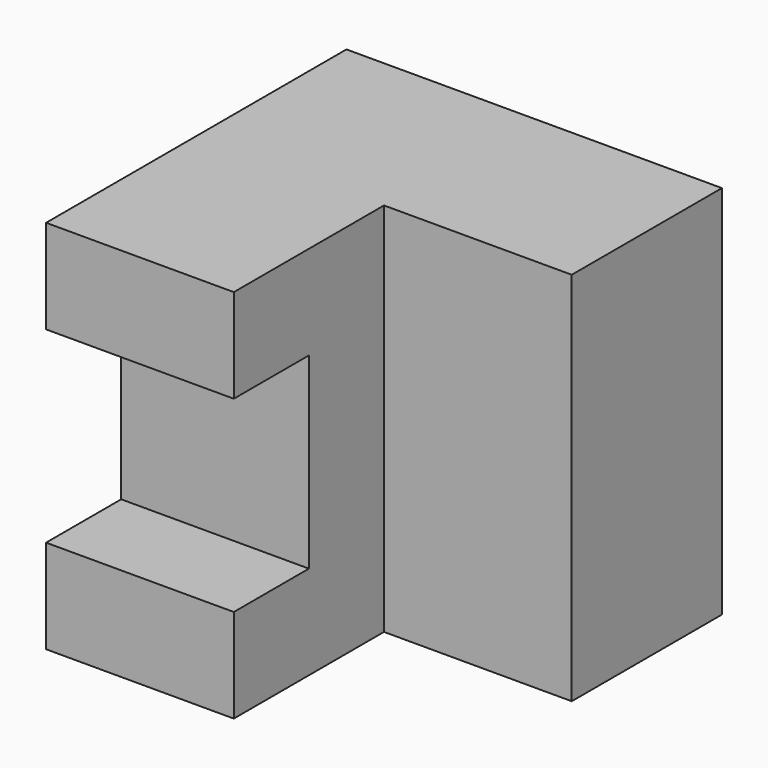
from build123d import *

# Parameters (mm, degrees)
F0_W     = 12.7
F0_H     = 25.4
F1_DEPTH = 25.4
F3_W     = 12.7
F3_H     = 12.7
F4_DEPTH = 6.35
F5_W     = 12.7
F5_H     = 25.4
F6_DEPTH = 12.7


with BuildPart() as f1:
    # F0 (on Front) → F1 (new body)
    with BuildSketch(Plane.XZ):
        with Locations((6.35, 12.7)):
            Rectangle(F0_W, F0_H)
    extrude(amount=-F1_DEPTH)

    # F3 (on face) → F4 (cut)
    with BuildSketch(Plane.XZ):
        with Locations((6.35, 12.7)):
            Rectangle(F3_W, F3_H)
    extrude(amount=-F4_DEPTH, mode=Mode.SUBTRACT)

    # F5 (on face) → F6 (join)
    with BuildSketch(Plane.YZ.offset(12.7)):
        with Locations((19.05, 12.7)):
            Rectangle(F5_W, F5_H)
    extrude(amount=F6_DEPTH)


solid = f1.part
